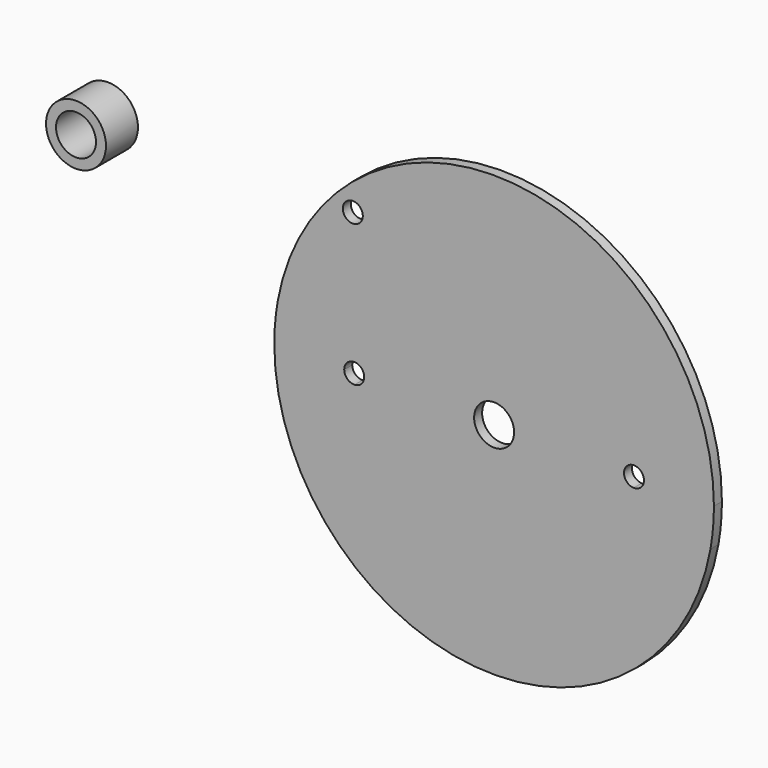
from build123d import *

# Parameters (mm, degrees)
F2_DEPTH = 6.35
F3_R     = 19.05
F3_R_2   = 12.7
F4_DEPTH = 25.4


with BuildPart() as f2:
    # F0 (on Front) → F2 (new body)
    with BuildSketch(Plane.XZ):
        with BuildLine():
            ThreePointArc((62.8617928475, 62.8617928475), (80.8654731589, 36.9321709461), (88.6732142857, 6.3459489629))
            ThreePointArc((88.6732142857, 6.3459489629), (93.3092182252, 4.5696055238), (95.25, 0))
            Line((95.25, 0), (139.7, 0))
            ThreePointArc((139.7, 0), (12.4175773144, 139.1470221515), (-137.492466337, 24.7368490427))
            Line((-137.492466337, 24.7368490427), (-68.1350364964, 57.103649635))
            ThreePointArc((-68.1350364964, 57.103649635), (-65.5616608838, 60.0406414202), (-62.8617928475, 62.8617928475))
            Line((-62.8617928475, 62.8617928475), (-85.3124331502, 85.3124331502))
            ThreePointArc((-85.3124331502, 85.3124331502), (-95.6691962421, 92.2326010062), (-83.4525612107, 89.8025612107))
            Line((-83.4525612107, 89.8025612107), (89.8025612107, 89.8025612107))
            Line((89.8025612107, 89.8025612107), (62.8617928475, 62.8617928475))
        make_face()
        with BuildLine():
            Line((-68.1350364964, 57.103649635), (-137.492466337, 24.7368490427))
            ThreePointArc((-137.492466337, 24.7368490427), (-139.1470221515, 12.4175773144), (-139.7, 0))
            Line((-139.7, 0), (-95.25, 0))
            ThreePointArc((-95.25, 0), (-93.3092182252, 4.5696055238), (-88.6732142857, 6.3459489629))
            ThreePointArc((-88.6732142857, 6.3459489629), (-82.4093011905, 33.3454206344), (-68.1350364964, 57.103649635))
        make_face()
        with BuildLine():
            Line((137.492466337, -24.7368490427), (68.1350364964, -57.103649635))
            ThreePointArc((68.1350364964, -57.103649635), (37.5945178679, -80.5596811456), (0, -88.9))
            ThreePointArc((0, -88.9), (-60.576625596, -65.0667536565), (-88.6732142857, -6.3459489629))
            ThreePointArc((-88.6732142857, -6.3459489629), (-93.3092182252, -4.5696055238), (-95.25, 0))
            Line((-95.25, 0), (-139.7, 0))
            ThreePointArc((-139.7, 0), (-12.4175773144, -139.1470221515), (137.492466337, -24.7368490427))
        make_face()
        with BuildLine():
            ThreePointArc((88.6732142857, -6.3459489629), (82.55, 0), (88.6732142857, 6.3459489629))
            ThreePointArc((88.6732142857, 6.3459489629), (80.8654731589, 36.9321709461), (62.8617928475, 62.8617928475))
            Line((62.8617928475, 62.8617928475), (8.9802561211, 8.9802561211))
            ThreePointArc((8.9802561211, 8.9802561211), (11.7332700629, 4.860079591), (12.7, 0))
            ThreePointArc((12.7, 0), (-4.860079591, -11.7332700629), (-8.9802561211, 8.9802561211))
            Line((-8.9802561211, 8.9802561211), (-60.6136363636, 60.6136363636))
            Line((-60.6136363636, 60.6136363636), (-68.1350364964, 57.103649635))
            ThreePointArc((-68.1350364964, 57.103649635), (-82.4093011905, 33.3454206344), (-88.6732142857, 6.3459489629))
            ThreePointArc((-88.6732142857, 6.3459489629), (-84.3303944762, 4.4092182252), (-82.55, 0))
            ThreePointArc((-82.55, 0), (-84.3303944762, -4.4092182252), (-88.6732142857, -6.3459489629))
            ThreePointArc((-88.6732142857, -6.3459489629), (-60.576625596, -65.0667536565), (0, -88.9))
            Line((0, -88.9), (68.1350364964, -57.103649635))
            ThreePointArc((68.1350364964, -57.103649635), (82.4093011905, -33.3454206344), (88.6732142857, -6.3459489629))
        make_face()
        with BuildLine():
            ThreePointArc((0, 88.9), (34.0205571373, 82.1328904403), (62.8617928475, 62.8617928475))
            Line((62.8617928475, 62.8617928475), (89.8025612107, 89.8025612107))
            Line((89.8025612107, 89.8025612107), (-83.4525612107, 89.8025612107))
            ThreePointArc((-83.4525612107, 89.8025612107), (-83.9359261792, 87.3725214152), (-85.3124331502, 85.3124331502))
            Line((-85.3124331502, 85.3124331502), (-62.8617928475, 62.8617928475))
            ThreePointArc((-62.8617928475, 62.8617928475), (-34.0205571373, 82.1328904403), (0, 88.9))
        make_face()
        with BuildLine():
            ThreePointArc((0, 88.9), (34.0205571373, 82.1328904403), (62.8617928475, 62.8617928475))
            Line((62.8617928475, 62.8617928475), (89.8025612107, 89.8025612107))
            Line((89.8025612107, 89.8025612107), (-83.4525612107, 89.8025612107))
            ThreePointArc((-83.4525612107, 89.8025612107), (-83.9359261792, 87.3725214152), (-85.3124331502, 85.3124331502))
            Line((-85.3124331502, 85.3124331502), (-62.8617928475, 62.8617928475))
            ThreePointArc((-62.8617928475, 62.8617928475), (-34.0205571373, 82.1328904403), (0, 88.9))
        make_face()
        with BuildLine():
            ThreePointArc((95.25, 0), (93.3092182252, -4.5696055238), (88.6732142857, -6.3459489629))
            ThreePointArc((88.6732142857, -6.3459489629), (82.4093011905, -33.3454206344), (68.1350364964, -57.103649635))
            Line((68.1350364964, -57.103649635), (137.492466337, -24.7368490427))
            ThreePointArc((137.492466337, -24.7368490427), (139.1470221515, -12.4175773144), (139.7, 0))
            Line((139.7, 0), (95.25, 0))
        make_face()
        with BuildLine():
            ThreePointArc((0, -88.9), (37.5945178679, -80.5596811456), (68.1350364964, -57.103649635))
            Line((68.1350364964, -57.103649635), (0, -88.9))
        make_face()
        with BuildLine():
            Line((8.9802561211, 8.9802561211), (62.8617928475, 62.8617928475))
            ThreePointArc((62.8617928475, 62.8617928475), (34.0205571373, 82.1328904403), (0, 88.9))
            Line((0, 88.9), (-60.6136363636, 60.6136363636))
            Line((-60.6136363636, 60.6136363636), (-8.9802561211, 8.9802561211))
            ThreePointArc((-8.9802561211, 8.9802561211), (0, 12.7), (8.9802561211, 8.9802561211))
        make_face()
        with BuildLine():
            Line((-60.6136363636, 60.6136363636), (0, 88.9))
            ThreePointArc((0, 88.9), (-34.0205571373, 82.1328904403), (-62.8617928475, 62.8617928475))
            Line((-62.8617928475, 62.8617928475), (-60.6136363636, 60.6136363636))
        make_face()
        with BuildLine():
            Line((-60.6136363636, 60.6136363636), (-62.8617928475, 62.8617928475))
            ThreePointArc((-62.8617928475, 62.8617928475), (-65.5616608838, 60.0406414202), (-68.1350364964, 57.103649635))
            Line((-68.1350364964, 57.103649635), (-60.6136363636, 60.6136363636))
        make_face()
    extrude(amount=F2_DEPTH)


with BuildPart() as f4:
    # F3 (on Front) → F4 (new body)
    with BuildSketch(Plane.XZ):
        with Locations((-250.4757642746, 88.6670723557)):
            Circle(F3_R)
        with Locations((-250.4757642746, 88.6670723557)):
            Circle(F3_R_2, mode=Mode.SUBTRACT)
    extrude(amount=F4_DEPTH)


solid = Compound([f2.part, f4.part])
